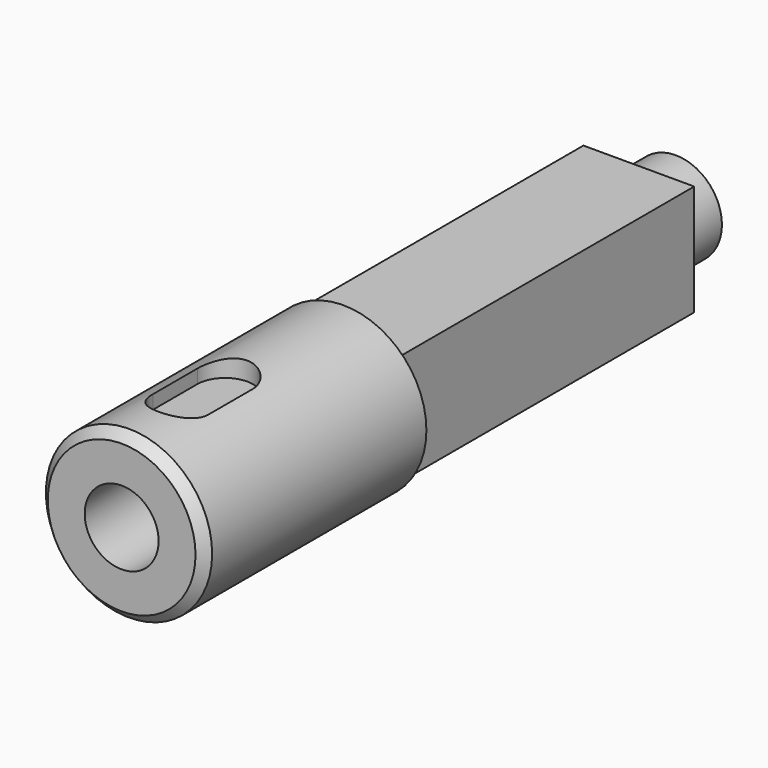
from build123d import *

# Parameters (mm, degrees)
F4_DEPTH = 25
F6_DEPTH = 40


with BuildPart() as f1:
    # F0 (on Top) → F1 (revolve)
    with BuildSketch(Plane.XY):
        Polygon((5, 53.16937), (0, 53.16937), (0, 0), (4, -1.83063), (4, -6.83063), (4, -21.83063), (8, -21.83063), (9, -20.83063), (9, 8.16937), (6, 8.16937), (6, 48.16937), (5, 48.16937), align=None)
    revolve(axis=Axis((0, 26.584685, 0), (0, -1, 0)))

    # F3 (on offset) → F4 (cut)
    with BuildSketch(Plane.XY.offset(7)):
        with BuildLine():
            ThreePointArc((-3, -13.83063), (0, -16.83063), (3, -13.83063))
            Line((3, -13.83063), (3, -7.83063))
            ThreePointArc((3, -7.83063), (0, -4.83063), (-3, -7.83063))
            Line((-3, -7.83063), (-3, -13.83063))
        make_face()
    extrude(amount=F4_DEPTH, mode=Mode.SUBTRACT)

    # F5 (on face) → F6 (join, through all)
    with BuildSketch(Plane(origin=(0, 48.16937, 0), x_dir=(-1, 0, 0), z_dir=(0, 1, 0))):
        with BuildLine():
            Line((0, 6), (-6, 6))
            Line((-6, 6), (-6, 0))
            ThreePointArc((-6, 0), (-4.242641, 4.242641), (0, 6))
        make_face()
        with BuildLine():
            ThreePointArc((0, -6), (-4.242641, -4.242641), (-6, 0))
            Line((-6, 0), (-6, -6))
            Line((-6, -6), (0, -6))
        make_face()
        with BuildLine():
            Line((6, -6), (6, 0))
            ThreePointArc((6, 0), (4.242641, -4.242641), (0, -6))
            Line((0, -6), (6, -6))
        make_face()
        with BuildLine():
            Line((6, 6), (0, 6))
            ThreePointArc((0, 6), (4.242641, 4.242641), (6, 0))
            Line((6, 0), (6, 6))
        make_face()
    extrude(amount=-F6_DEPTH)


solid = f1.part
